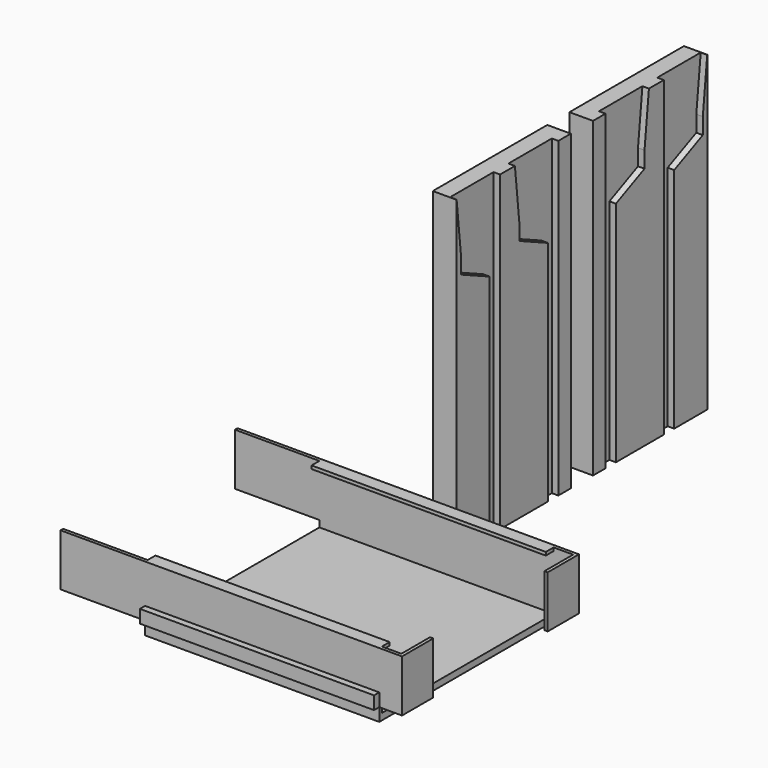
from build123d import *

# Parameters (mm, degrees)
F0_W     = 69.85
F0_H     = 152.4
F1_DEPTH = 11.5
F3_DEPTH = 3.175
F4_W     = 3.175
F4_H     = 6.35
F5_DEPTH = 114.3
F6_W     = 41.275
F6_H     = 1.5875
F7_DEPTH = 25.4


with BuildPart() as f1:
    # F0 (on Right) → F1 (new body)
    with BuildSketch(Plane.YZ):
        with Locations((-41.338587, -15.031421)):
            Rectangle(F0_W, F0_H)
        with Locations((42.037002, -15.031421)):
            Rectangle(F0_W, F0_H)
    extrude(amount=F1_DEPTH)

    # F2 (on face) → F3 (cut)
    with BuildSketch(Plane.YZ.offset(11.5)):
        Polygon((-49.593587, 61.168579), (-55.943587, 61.168579), (-55.943587, 19.893579), (-55.943587, -91.231421), (-49.593587, -91.231421), align=None)
        Polygon((-55.943587, 19.893579), (-55.943587, 61.168579), (-76.097585, 61.168579), (-73.406087, 35.768579), (-73.406087, 27.831079), align=None)
        Polygon((56.642002, 61.168579), (50.292002, 61.168579), (50.292002, -91.231421), (56.642002, -91.231421), (56.642002, 19.893579), align=None)
        Polygon((76.795999, 61.168579), (56.642002, 61.168579), (56.642002, 19.893579), (74.104502, 27.831079), (74.104502, 35.768579), align=None)
        Polygon((-14.033587, -91.231421), (-14.033587, 61.168579), (-20.383587, 61.168579), (-20.383587, 19.893579), (-20.383587, -91.231421), align=None)
        Polygon((-20.383587, 19.893579), (-20.383587, 61.168579), (-40.537585, 61.168579), (-37.846087, 35.768579), (-37.846087, 27.831079), align=None)
        Polygon((21.082002, 19.893579), (21.082002, 61.168579), (14.732002, 61.168579), (14.732002, -91.231421), (21.082002, -91.231421), align=None)
        Polygon((41.235999, 61.168579), (21.082002, 61.168579), (21.082002, 19.893579), (38.544502, 27.831079), (38.544502, 35.768579), align=None)
    extrude(amount=-F3_DEPTH, mode=Mode.SUBTRACT)


with BuildPart() as f5:
    # F4 (on Right) → F5 (new body)
    with BuildSketch(Plane.YZ):
        Polygon((-250.214378, -28.257499), (-245.451878, -28.257499), (-245.451878, -26.669999), (-251.801878, -26.669999), (-251.801878, -45.719999), (-251.801878, -52.069999), (-251.801878, -58.419999), (-143.851878, -58.419999), (-143.851878, -52.069999), (-143.851878, -45.719999), (-143.851878, -26.669999), (-150.201878, -26.669999), (-150.201878, -28.257499), (-145.439378, -28.257499), (-145.439378, -55.244999), (-250.214378, -55.244999), align=None)
        with Locations((-253.389378, -48.894999)):
            Rectangle(F4_W, F4_H)
        with Locations((-142.264378, -48.894999)):
            Rectangle(F4_W, F4_H)
    extrude(amount=F5_DEPTH)

    # F6 (on face) → F7 (join)
    with BuildSketch(Plane.XY.offset(-26.669999)):
        Polygon((125.4125, -143.851878), (114.3, -143.851878), (114.3, -145.439378), (123.825, -145.439378), (123.825, -162.901878), (125.4125, -162.901878), align=None)
        Polygon((114.3, -250.214378), (114.3, -251.801878), (125.4125, -251.801878), (125.4125, -232.751878), (123.825, -232.751878), (123.825, -250.214378), align=None)
        with Locations((-20.6375, -144.645628)):
            Rectangle(F6_W, F6_H)
        with Locations((-20.6375, -251.008128)):
            Rectangle(F6_W, F6_H)
    extrude(amount=-F7_DEPTH)


solid = Compound([f1.part, f5.part])
